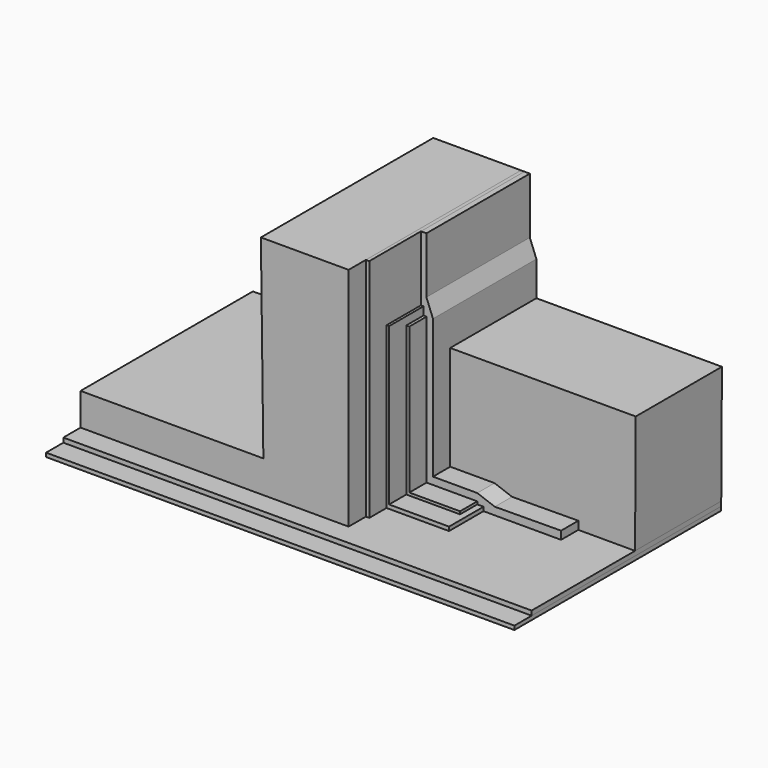
from build123d import *

# Parameters (mm, degrees)
F1_DEPTH = 100
F2_DEPTH = 110
F0_W     = 217.36748
F0_H     = 1.811132
F3_DEPTH = 120
F4_DEPTH = 90
F5_DEPTH = 80
F6_DEPTH = 70
F7_DEPTH = 60
F8_DEPTH = 50


with BuildPart() as f1:
    # F0 (on Front) → F1 (new body)
    with BuildSketch(Plane.XZ):
        Polygon((-27.717119, 57.864746), (-68.44143, 57.864746), (-67.286856, -32.058271), (-152.137729, -32.058271), (-152.137729, -47.058271), (-27.717119, -47.058271), align=None)
    extrude(amount=F1_DEPTH)


with BuildPart() as f2:
    # F0 (on Front) → F2 (new body)
    with BuildSketch(Plane.XZ):
        Polygon((-26.13158, -47.058271), (-27.717119, -47.058271), (-152.137729, -47.058271), (-152.137729, -49.16336), (65.229751, -49.16336), (65.229751, -47.058271), (38.894936, -47.058271), (2.898001, -47.058271), align=None)
    extrude(amount=F2_DEPTH)


with BuildPart() as f3:
    # F0 (on Front) → F3 (new body)
    with BuildSketch(Plane.XZ):
        with Locations((-43.453989, -50.068926)):
            Rectangle(F0_W, F0_H)
    extrude(amount=F3_DEPTH)


with BuildPart() as f4:
    # F0 (on Front) → F4 (new body)
    with BuildSketch(Plane.XZ):
        Polygon((-26.13158, 57.864746), (-27.717119, 57.864746), (-27.717119, -47.058271), (-26.13158, -47.058271), (-26.13158, 27.62443), align=None)
    extrude(amount=F4_DEPTH)


with BuildPart() as f5:
    # F0 (on Front) → F5 (new body)
    with BuildSketch(Plane.XZ):
        Polygon((-26.13158, 27.62443), (-26.13158, -47.058271), (2.898001, -47.058271), (2.898001, -45.234002), (0, -45.234002), (-24.935156, -45.234002), (-24.935156, 23.850781), (-24.935156, 27.62443), align=None)
    extrude(amount=F5_DEPTH)


with BuildPart() as f6:
    # F0 (on Front) → F6 (new body)
    with BuildSketch(Plane.XZ):
        Polygon((-23.537509, 23.850781), (-24.935156, 23.850781), (-24.935156, -45.234002), (0, -45.234002), (0, -43.974001), (-23.537509, -43.974001), align=None)
    extrude(amount=F6_DEPTH)


with BuildPart() as f7:
    # F0 (on Front) → F7 (new body)
    with BuildSketch(Plane.XZ):
        Polygon((-23.599576, 57.864746), (-26.13158, 57.864746), (-26.13158, 27.62443), (-24.935156, 27.62443), (-24.935156, 23.850781), (-23.537509, 23.850781), (-23.537509, -43.974001), (0, -43.974001), (0, -45.234002), (2.898001, -45.234002), (2.898001, -47.058271), (38.894936, -47.058271), (38.894936, -43.311607), (8.139933, -43.539423), (0, -40.577829), (-20.564739, -40.577829), (-20.564739, 7.946733), (-20.564739, 23.95942), (-23.599576, 31.755088), align=None)
    extrude(amount=F7_DEPTH)


with BuildPart() as f8:
    # F0 (on Front) → F8 (new body)
    with BuildSketch(Plane.XZ):
        Polygon((38.894936, -43.311607), (38.894936, -47.058271), (65.229751, -47.058271), (65.549262, 7.946733), (-20.564739, 7.946733), (-20.564739, -40.577829), (0, -40.577829), (8.139933, -43.539423), align=None)
    extrude(amount=F8_DEPTH)


solid = Compound([f1.part, f2.part, f3.part, f4.part, f5.part, f6.part, f7.part, f8.part])
